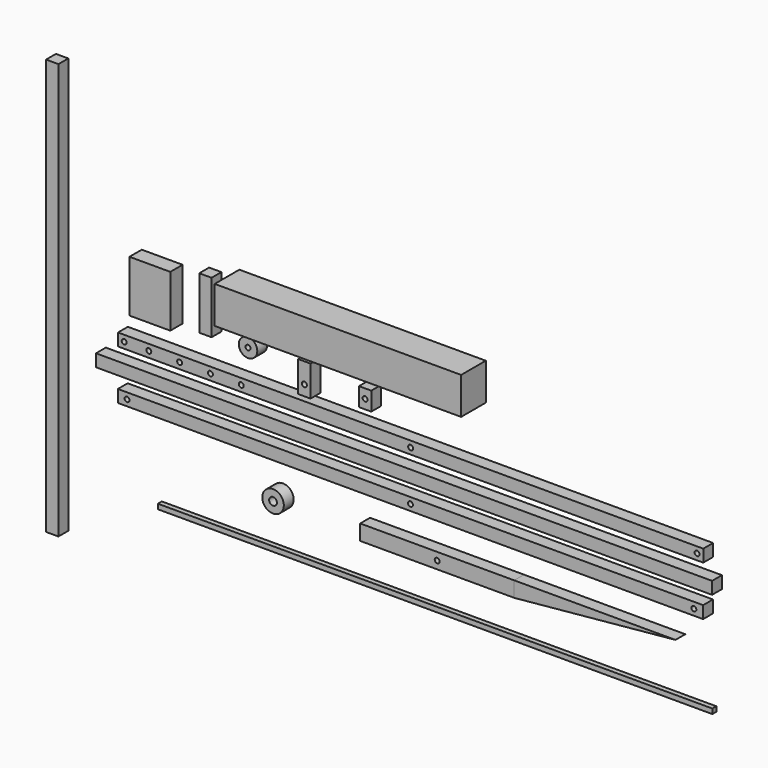
from build123d import *

# Parameters (mm, degrees)
F0_W      = 1900
F0_H      = 40
F1_DEPTH  = 40
F2_R      = 8
F3_DEPTH  = 40
F4_R      = 8
F5_DEPTH  = 40
F6_R      = 8
F7_DEPTH  = 40
F8_R      = 30
F9_DEPTH  = 40
F10_R     = 8
F11_DEPTH = 40
F12_W     = 40
F12_H     = 60
F12_R     = 8
F13_DEPTH = 40
F14_W     = 2000
F14_H     = 40
F15_DEPTH = 40
F16_W     = 800
F16_H     = 120
F17_DEPTH = 100
F18_R     = 8
F19_DEPTH = 40
F20_R     = 8
F21_DEPTH = 40
F22_W     = 40
F22_H     = 100
F22_R     = 8
F23_DEPTH = 40
F24_W     = 132.4965953827
F24_H     = 168.1139841676
F25_DEPTH = 50
F26_R     = 8
F27_DEPTH = 40
F28_R     = 8
F29_DEPTH = 40
F30_R     = 8
F31_DEPTH = 40
F32_W     = 1900
F32_H     = 40
F32_R     = 8
F33_DEPTH = 40
F34_W     = 40
F34_H     = 170
F35_DEPTH = 40
F36_W     = 500
F36_H     = 50
F36_R     = 8
F38_DEPTH = 40
F39_R     = 35
F39_R_2   = 12.5
F40_DEPTH = 40
F41_W     = 40
F41_H     = 1350
F42_DEPTH = 40
F43_W     = 1800
F43_H     = 16
F44_DEPTH = 16


with BuildPart() as f1:
    # F0 (on Front) → F1 (new body)
    with BuildSketch(Plane.XZ):
        with Locations((398.5883434173, 20)):
            Rectangle(F0_W, F0_H)
    extrude(amount=F1_DEPTH)

    # F2 (on face) → F3 (cut)
    with BuildSketch(Plane.XZ.offset(40)):
        with Locations((-531.4116565827, 20)):
            Circle(F2_R)
    extrude(amount=-F3_DEPTH, mode=Mode.SUBTRACT)

    # F4 (on face) → F5 (cut)
    with BuildSketch(Plane.XZ.offset(40)):
        with Locations((398.5883434173, 20)):
            Circle(F4_R)
    extrude(amount=-F5_DEPTH, mode=Mode.SUBTRACT)

    # F6 (on face) → F7 (cut)
    with BuildSketch(Plane.XZ.offset(40)):
        with Locations((1328.5883434173, 20)):
            Circle(F6_R)
    extrude(amount=-F7_DEPTH, mode=Mode.SUBTRACT)

    # F18 (on face) → F19 (cut)
    with BuildSketch(Plane.XZ.offset(40)):
        with Locations((-451.4116565827, 20)):
            Circle(F18_R)
    extrude(amount=-F19_DEPTH, mode=Mode.SUBTRACT)

    # F20 (on face) → F21 (cut)
    with BuildSketch(Plane.XZ.offset(40)):
        with Locations((-351.4116565827, 20)):
            Circle(F20_R)
    extrude(amount=-F21_DEPTH, mode=Mode.SUBTRACT)

    # F26 (on face) → F27 (cut)
    with BuildSketch(Plane.XZ.offset(40)):
        with Locations((-264.6850347519, 20)):
            Circle(F26_R)
    extrude(amount=F27_DEPTH, mode=Mode.SUBTRACT)

    # F28 (on face) → F29 (cut)
    with BuildSketch(Plane.XZ.offset(40)):
        with Locations((-251.4116565827, 20)):
            Circle(F28_R)
    extrude(amount=-F29_DEPTH, mode=Mode.SUBTRACT)

    # F30 (on face) → F31 (cut)
    with BuildSketch(Plane.XZ.offset(40)):
        with Locations((-151.4116565827, 20)):
            Circle(F30_R)
    extrude(amount=-F31_DEPTH, mode=Mode.SUBTRACT)


with BuildPart() as f9:
    # F8 (on Front) → F9 (new body)
    with BuildSketch(Plane.XZ):
        with Locations((-129.2610317469, 133.9925378561)):
            Circle(F8_R)
    extrude(amount=F9_DEPTH)

    # F10 (on face) → F11 (cut)
    with BuildSketch(Plane.XZ.offset(40)):
        with Locations((-129.2610317469, 133.9925378561)):
            Circle(F10_R)
    extrude(amount=-F11_DEPTH, mode=Mode.SUBTRACT)


with BuildPart() as f13:
    # F12 (on Front) → F13 (new body)
    with BuildSketch(Plane.XZ):
        with Locations((250.7593226433, 111.0396894813)):
            Rectangle(F12_W, F12_H)
        with Locations((250.7593226433, 111.0396894813)):
            Circle(F12_R, mode=Mode.SUBTRACT)
    extrude(amount=F13_DEPTH)


with BuildPart() as f15:
    # F14 (on Front) → F15 (new body)
    with BuildSketch(Plane.XZ):
        with Locations((377.1399259567, -62.7289745212)):
            Rectangle(F14_W, F14_H)
    extrude(amount=F15_DEPTH)


with BuildPart() as f17:
    # F16 (on Front) → F17 (new body)
    with BuildSketch(Plane.XZ):
        with Locations((210.5024814606, 260.8968889713)):
            Rectangle(F16_W, F16_H)
    extrude(amount=F17_DEPTH)


with BuildPart() as f23:
    # F22 (on Front) → F23 (new body)
    with BuildSketch(Plane.XZ):
        with Locations((53.679946363, 104.2603507638)):
            Rectangle(F22_W, F22_H)
        with Locations((53.679946363, 88.4530246258)):
            Circle(F22_R, mode=Mode.SUBTRACT)
    extrude(amount=F23_DEPTH)


with BuildPart() as f25:
    # F24 (on Front) → F25 (new body)
    with BuildSketch(Plane.XZ):
        with Locations((-439.9225115776, 191.031049937)):
            Rectangle(F24_W, F24_H)
    extrude(amount=F25_DEPTH)


with BuildPart() as f33:
    # F32 (on Front) → F33 (new body)
    with BuildSketch(Plane.XZ):
        with Locations((398.0693101883, -141.5809053183)):
            Rectangle(F32_W, F32_H)
        with Locations((-521.9306898117, -141.5809053183)):
            Circle(F32_R, mode=Mode.SUBTRACT)
        with Locations((398.0693101883, -141.5809053183)):
            Circle(F32_R, mode=Mode.SUBTRACT)
        with Locations((1318.0693101883, -141.5809053183)):
            Circle(F32_R, mode=Mode.SUBTRACT)
    extrude(amount=F33_DEPTH)


with BuildPart() as f35:
    # F34 (on Front) → F35 (new body)
    with BuildSketch(Plane.XZ):
        with Locations((-267.6166635752, 210.0803917646)):
            Rectangle(F34_W, F34_H)
    extrude(amount=F35_DEPTH)


with BuildPart() as f38:
    # F36 (on Front) → F38 (new body)
    with BuildSketch(Plane.XZ):
        with Locations((484.8057031631, -275.1216053963)):
            Rectangle(F36_W, F36_H)
        with Locations((484.8057031631, -275.1216053963)):
            Circle(F36_R, mode=Mode.SUBTRACT)
    extrude(amount=F38_DEPTH)


with BuildPart() as f38b:
    # F37 (on face) → F38, piece 2 (new body)
    with BuildSketch(Plane.XZ):
        Polygon((1258.2906484604, -250.1216053963), (734.8057031631, -250.1216053963), (734.8057031631, -300.1216053963), (734.8057031631, -300.1758158207), align=None)
    extrude(amount=F38_DEPTH)


with BuildPart() as f40:
    # F39 (on Front) → F40 (new body)
    with BuildSketch(Plane.XZ):
        with Locations((-48.1314398348, -278.8524925709)):
            Circle(F39_R)
        with Locations((-48.1314398348, -278.8524925709)):
            Circle(F39_R_2, mode=Mode.SUBTRACT)
    extrude(amount=F40_DEPTH)


with BuildPart() as f42:
    # F41 (on Front) → F42 (new body)
    with BuildSketch(Plane.XZ):
        with Locations((-764.8739409447, 68.9723968506)):
            Rectangle(F41_W, F41_H)
    extrude(amount=F42_DEPTH)


with BuildPart() as f44:
    # F43 (on Front) → F44 (new body)
    with BuildSketch(Plane.XZ):
        with Locations((458.852148056, -431.2492473125)):
            Rectangle(F43_W, F43_H)
    extrude(amount=F44_DEPTH)


solid = Compound([f1.part, f9.part, f13.part, f15.part, f17.part, f23.part, f25.part, f33.part, f35.part, f38.part, f38b.part, f40.part, f42.part, f44.part])
